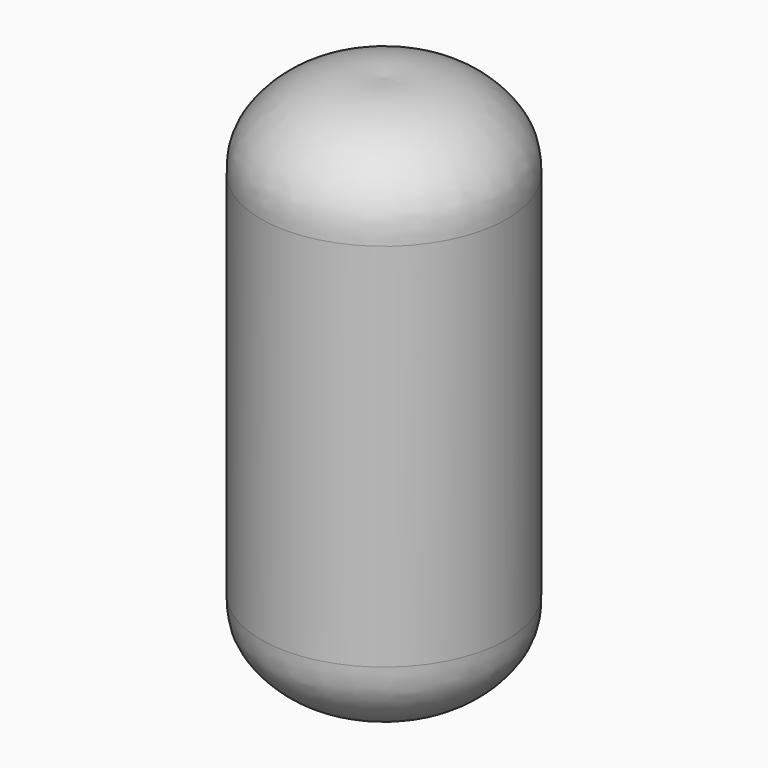
from build123d import *


with BuildPart() as f1:
    # F0 (on Front) → F1 (revolve)
    with BuildSketch(Plane.XZ):
        with BuildLine():
            Line((6.7486139797, 0), (6.7486139797, 10.16))
            add(Edge.make_bspline(
                [(0, 14.8154068738), (0.624169954, 14.8572499029), (1.9976919446, 14.9493279021), (4.750990325, 14.1536923042), (6.7022036979, 11.9236800616), (6.7345260832, 10.6953671901), (6.7486139797, 10.16)],
                knots=[0, 0, 0, 0, 0.2316476617, 0.5097540427, 0.7863234957, 1, 1, 1, 1], degree=3))
            Line((0, 14.8154068738), (0, 0))
            Line((0, 0), (6.7486139797, 0))
        make_face()
        with BuildLine():
            Line((6.7486139797, -10.16), (6.7486139797, 0))
            Line((6.7486139797, 0), (0, 0))
            Line((0, 0), (0, -14.8154068738))
            add(Edge.make_bspline(
                [(0, -14.8154068738), (0.624169954, -14.8572499029), (1.9976919446, -14.9493279021), (4.750990325, -14.1536923042), (6.7022036979, -11.9236800616), (6.7345260832, -10.6953671901), (6.7486139797, -10.16)],
                knots=[0, 0, 0, 0, 0.2316476617, 0.5097540427, 0.7863234957, 1, 1, 1, 1], degree=3))
        make_face()
    revolve(axis=Axis((0, 0, -7.4077034369), (0, 0, 1)))


solid = f1.part
